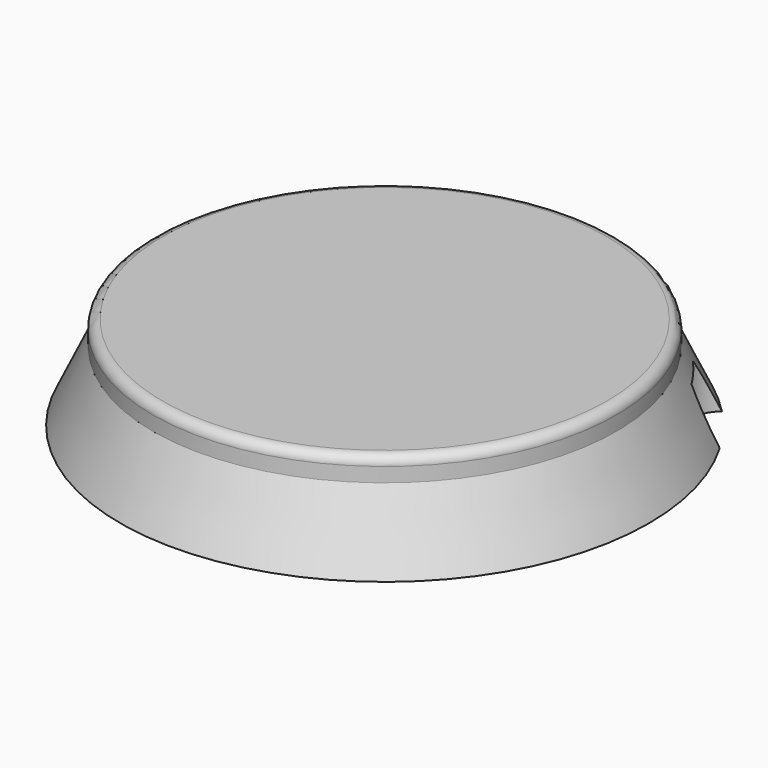
from build123d import *

# Parameters (mm, degrees)
POCKET001_DEPTH         = 8
FILLET_R                = 1.5
SKETCH021_R             = 2
POCKET006_DEPTH         = 8
BODY003_PLACEMENT_ANGLE = 127.1


with BuildPart() as part:
    # Sketch009 → Revolution002 (revolve)
    with BuildSketch(Plane.XZ):
        Polygon((35.8, -1.2), (0, -1.2), (0, 0), (37, 0), (37, -2.8), (37, -3.8), (42.222646, -15), (26, -15), (26, -13), (35.8, -3.2), align=None)
    revolve(axis=Axis((0, 0, 0), (0, 0, 1)))

    # Sketch010 (on Face6 of Revolution002) → Pocket001 (cut)
    with BuildSketch(Plane(origin=(0, 0, -15), x_dir=(1, 0, 0), z_dir=(0, 0, -1))):
        with BuildLine():
            ThreePointArc((-4.991228, 41.926596), (0, 37.222646), (4.991228, 41.926596))
            ThreePointArc((4.991228, 41.926596), (0, 42.222646), (-4.991228, 41.926596))
        make_face()
    extrude(amount=-POCKET001_DEPTH, mode=Mode.SUBTRACT)

    # Fillet
    fillet_edges = [part.edges().sort_by_distance(p)[0] for p in [
        (-37, 0, 0),
        (-35.8, 0, -1.2),
    ]]
    fillet(fillet_edges, radius=FILLET_R)

    # Sketch021 → Pocket006 (cut)
    with BuildSketch(Plane.XY.offset(-15)):
        with Locations((-9.025876, -28.085291)):
            Circle(SKETCH021_R)
        with Locations((26.240123, 13.479835)):
            Circle(SKETCH021_R)
        with Locations((-20.597214, 21.118825)):
            Circle(SKETCH021_R)
    extrude(amount=POCKET006_DEPTH, mode=Mode.SUBTRACT)


with BuildPart() as part_1:
    # Body003 placement: moved
    add(part.part.moved(Location((0, 0, 27.04))).rotate(Axis((0, 0, 27.04), (0, 0, 1)), BODY003_PLACEMENT_ANGLE))


solid = part_1.part
